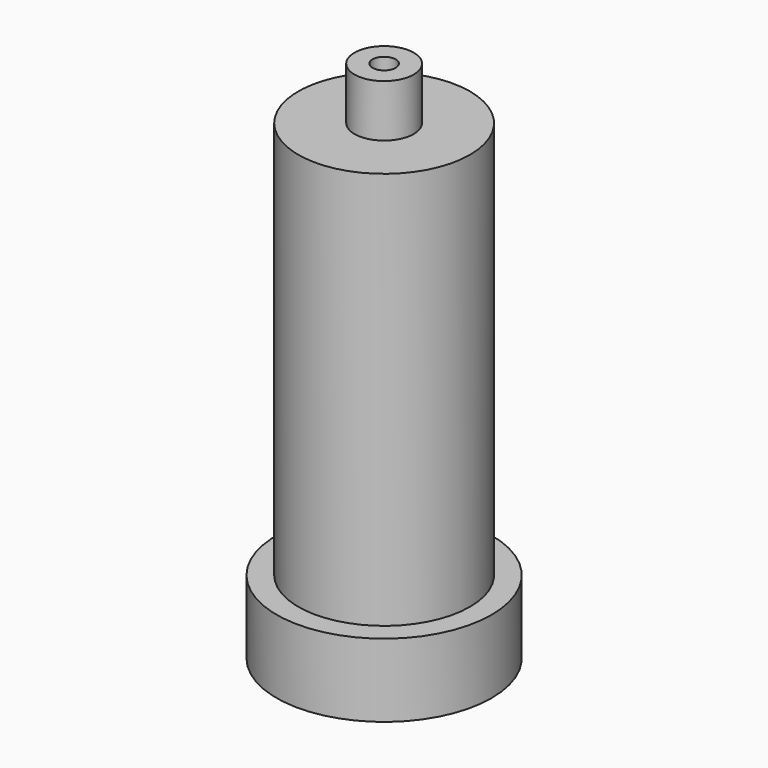
from build123d import *

# Parameters (mm, degrees)
F0_R     = 13.0362037077
F0_R_2   = 10.4116007046
F0_R_3   = 3.592976873
F1_DEPTH = 12.7
F2_DEPTH = 57.15
F3_DEPTH = 50.8
F4_DEPTH = 3.81
F5_DEPTH = 44.45
F6_R     = 1.4003561132
F7_DEPTH = 63.501


with BuildPart() as f1:
    # F0 (on Top) → F1 (new body)
    with BuildSketch(Plane.XY):
        Circle(F0_R)
        Circle(F0_R_2, mode=Mode.SUBTRACT)
        Circle(F0_R_2)
        Circle(F0_R_3, mode=Mode.SUBTRACT)
        Circle(F0_R_3)
    extrude(amount=F1_DEPTH)

    # F0 (on Top) → F2 (join)
    with BuildSketch(Plane.XY):
        Circle(F0_R_2)
        Circle(F0_R_3, mode=Mode.SUBTRACT)
    extrude(amount=F2_DEPTH)

    # F3 (add): a face of the model
    f3_faces = [f1.faces().sort_by_distance(p)[0] for p in [
        (0, 0, 12.7),
    ]]
    extrude(f3_faces, amount=F3_DEPTH)

    # F4 (cut): a face of the model
    f4_faces = [f1.faces().sort_by_distance(p)[0] for p in [
        (-12.667484186, 0, 12.7),
    ]]
    extrude(f4_faces, amount=-F4_DEPTH, mode=Mode.SUBTRACT)

    # F0 (on Top) → F5 (cut)
    with BuildSketch(Plane.XY):
        Circle(F0_R_3)
    extrude(amount=F5_DEPTH, mode=Mode.SUBTRACT)

    # F6 (on face) → F7 (cut, through all)
    with BuildSketch(Plane.XY.offset(63.5)):
        Circle(F6_R)
    extrude(amount=-F7_DEPTH, mode=Mode.SUBTRACT)


solid = f1.part
